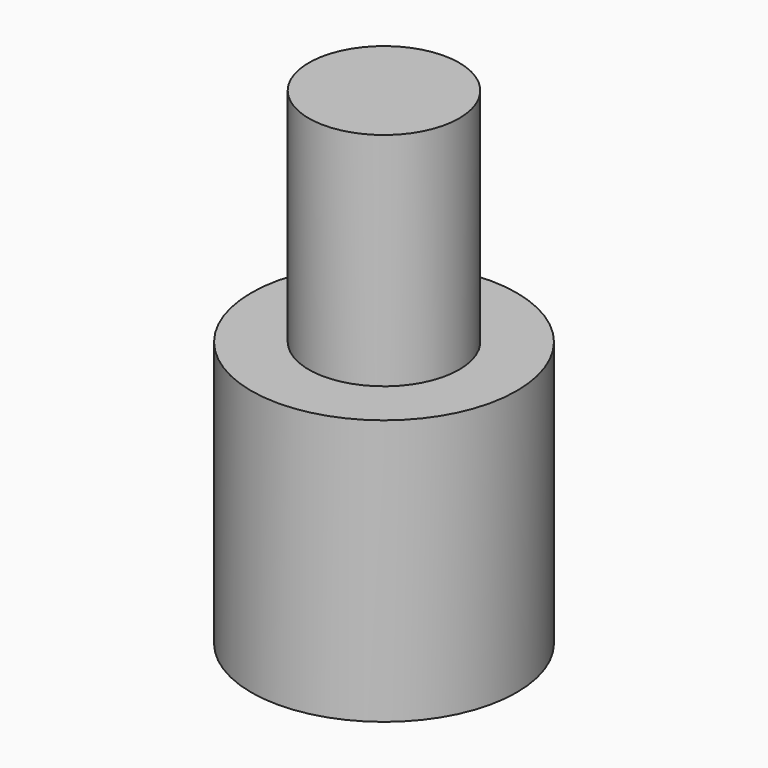
from build123d import *

# Parameters (mm, degrees)
SKETCH098_W       = 1
SKETCH098_H       = 1
PAD061_DEPTH      = 4
SKETCH099_R       = 3
PAD062_DEPTH      = 3
PAD062_DEPTH_BACK = 3
SKETCH102_R       = 1.7
PAD063_DEPTH      = 8
SKETCH100_W       = 2.25
SKETCH100_H       = 2.25
POCKET048_DEPTH   = 2.5


with BuildPart() as part:
    # Sketch098 → Pad061 (new body)
    with BuildSketch(Plane(origin=(0, 0, 22), x_dir=(1, 0, 0), z_dir=(0, 0, -1))):
        with Locations((5.5, 22.5)):
            Rectangle(SKETCH098_W, SKETCH098_H)
    extrude(amount=-PAD061_DEPTH)

    # Sketch099 (on Face5 of Pad061) → Pad062 (join, two sides)
    with BuildSketch(Plane(origin=(0, 0, 22), x_dir=(1, 0, 0), z_dir=(0, 0, -1))) as pad062_sk:
        with Locations((5.5, 22.5)):
            Circle(SKETCH099_R)
    extrude(amount=PAD062_DEPTH)
    extrude(pad062_sk.sketch, amount=-PAD062_DEPTH_BACK)

    # Sketch102 → Pad063 (join)
    with BuildSketch(Plane.XY.offset(22)):
        with Locations((5.5, -22.5)):
            Circle(SKETCH102_R)
    extrude(amount=PAD063_DEPTH)

    # Sketch100 (on Face4 of Pad063) → Pocket048 (cut)
    with BuildSketch(Plane(origin=(0, 0, 19), x_dir=(1, 0, 0), z_dir=(0, 0, -1))):
        with Locations((5.5, 22.5)):
            Rectangle(SKETCH100_W, SKETCH100_H)
    extrude(amount=-POCKET048_DEPTH, mode=Mode.SUBTRACT)


solid = part.part
